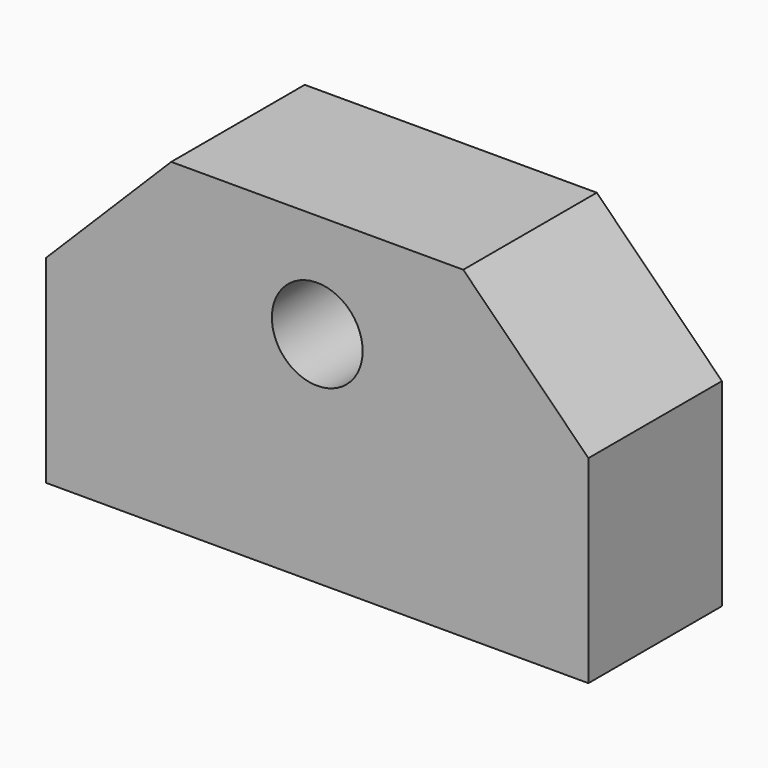
from build123d import *

# Parameters (mm, degrees)
F0_W     = 20.6375
F0_H     = 6.35
F1_DEPTH = 12.30249
F2_R     = 1.7272
F3_DEPTH = 6.35
F4_R     = 1.35255
F5_DEPTH = 4.7625
F6_SIZE  = 4.7625


with BuildPart() as f1:
    # F0 (on Top) → F1 (new body)
    with BuildSketch(Plane.XY):
        with Locations((10.31875, 3.175)):
            Rectangle(F0_W, F0_H)
    extrude(amount=F1_DEPTH)

    # F2 (on face) → F3 (cut, through all)
    with BuildSketch(Plane.XZ):
        with Locations((10.31875, 8.33374)):
            Circle(F2_R)
    extrude(amount=-F3_DEPTH, mode=Mode.SUBTRACT)

    # F4 (on face) → F5 (cut)
    with BuildSketch(Plane(origin=(0, 0, 0), x_dir=(1, 0, 0), z_dir=(0, 0, -1))):
        with Locations((3.175, -3.175)):
            Circle(F4_R)
        with Locations((17.4625, -3.175)):
            Circle(F4_R)
    extrude(amount=-F5_DEPTH, mode=Mode.SUBTRACT)

    # F6
    f6_edges = [f1.edges().sort_by_distance(p)[0] for p in [
        (0, 3.175, 12.30249),
        (20.6375, 3.175, 12.30249),
    ]]
    chamfer(f6_edges, length=F6_SIZE)


solid = f1.part
